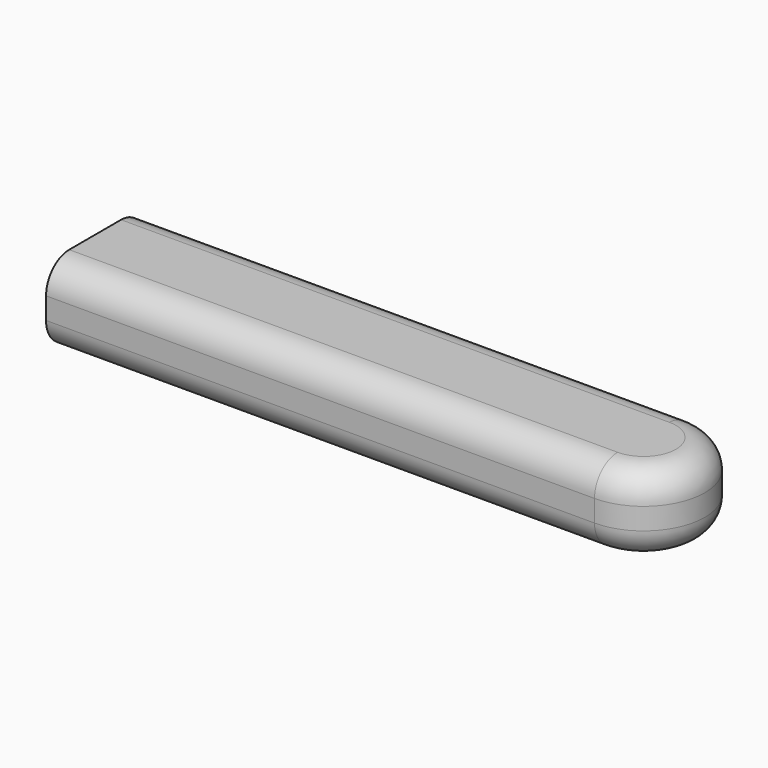
from build123d import *

# Parameters (mm, degrees)
F1_DEPTH = 11
F2_R     = 4
F3_R     = 4
F4_R     = 2.888832
F5_DEPTH = 65


with BuildPart() as f1:
    # F0 (on Top) → F1 (new body)
    with BuildSketch(Plane.XY):
        with BuildLine():
            Line((35.975721, 11.224424), (-40.004998, 11.224424))
            Line((-40.004998, 11.224424), (-40.004998, -5.756116))
            Line((-40.004998, -5.756116), (35.975721, -5.756116))
            ThreePointArc((35.975721, -5.756116), (44.465991, 2.734154), (35.975721, 11.224424))
        make_face()
    extrude(amount=F1_DEPTH)

    # F2
    f2_edges = [f1.edges().sort_by_distance(p)[0] for p in [
        (-2.014639, -5.756116, 11),
        (44.465991, 2.734154, 11),
        (-2.014639, 11.224424, 11),
    ]]
    fillet(f2_edges, radius=F2_R)

    # F3
    f3_edges = [f1.edges().sort_by_distance(p)[0] for p in [
        (-2.014639, 11.224424, 0),
        (-2.014639, -5.756116, 0),
        (44.465991, 2.734154, 0),
    ]]
    fillet(f3_edges, radius=F3_R)

    # F4 (on face) → F5 (cut)
    with BuildSketch(Plane(origin=(-40.004998, 0, 0), x_dir=(0, -1, 0), z_dir=(-1, 0, 0))):
        with Locations((-2.832736, 5.382194)):
            Circle(F4_R)
    extrude(amount=-F5_DEPTH, mode=Mode.SUBTRACT)


solid = f1.part
